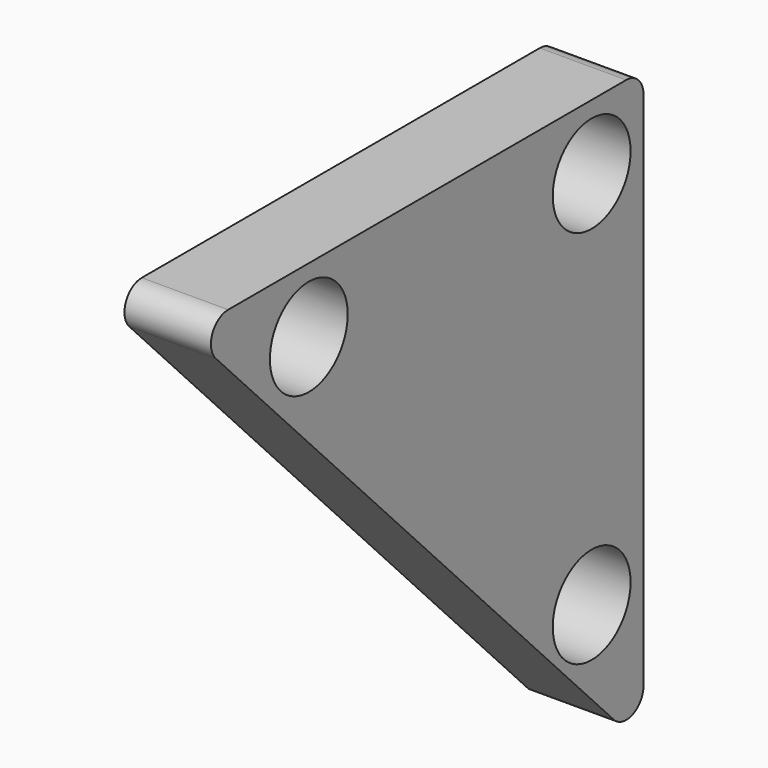
from build123d import *

# Parameters (mm, degrees)
F0_R     = 14.2875
F1_DEPTH = 25.4


with BuildPart() as f1:
    # F0 (on Right) → F1 (new body)
    with BuildSketch(Plane.YZ):
        with BuildLine():
            Line((161.028833, 175.012099), (14.85964, 175.012099))
            ThreePointArc((14.85964, 175.012099), (9.020452, 171.157371), (10.270549, 164.273164))
            Line((10.270549, 164.273164), (156.439742, 11.437965))
            ThreePointArc((156.439742, 11.437965), (163.393338, 9.933546), (167.378833, 15.8269))
            Line((167.378833, 15.8269), (167.378833, 168.662099))
            ThreePointArc((167.378833, 168.662099), (165.518961, 173.152227), (161.028833, 175.012099))
        make_face()
        with Locations((148.328833, 44.45)):
            Circle(F0_R, mode=Mode.SUBTRACT)
        with Locations((44.45, 155.962099)):
            Circle(F0_R, mode=Mode.SUBTRACT)
        with Locations((148.328833, 155.962099)):
            Circle(F0_R, mode=Mode.SUBTRACT)
    extrude(amount=F1_DEPTH)


solid = f1.part
